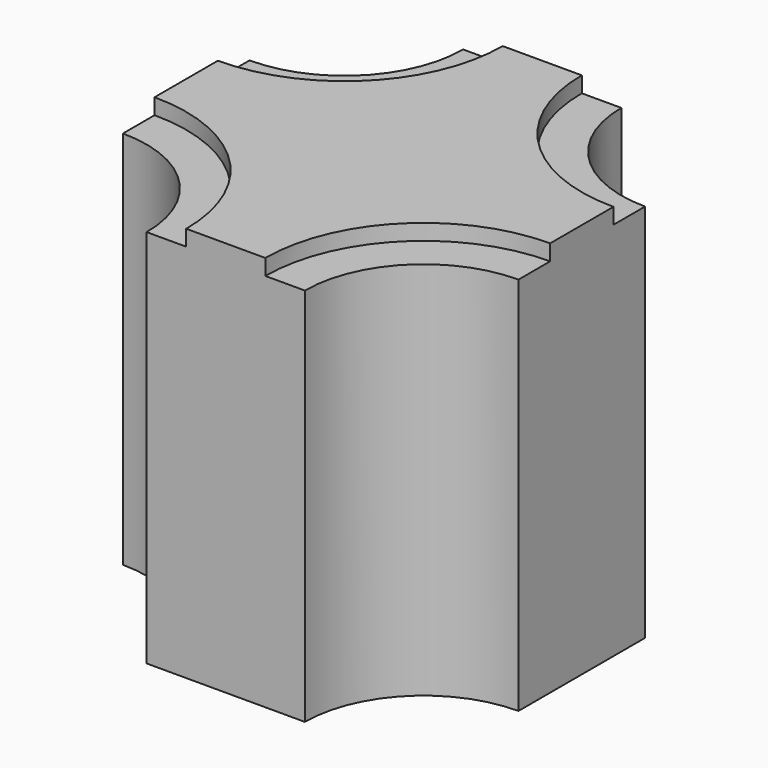
from build123d import *

# Parameters (mm, degrees)
F1_DEPTH = 250
F2_DEPTH = 240


with BuildPart() as f1:
    # F0 (on Top) → F1 (new body)
    with BuildSketch(Plane.XY):
        with BuildLine():
            Line((-250, 150), (-250, 100))
            ThreePointArc((-250, 100), (-179.289322, 70.710678), (-150, 0))
            Line((-150, 0), (-100, 0))
            ThreePointArc((-100, 0), (-70.710678, 70.710678), (0, 100))
            Line((0, 100), (0, 150))
            ThreePointArc((0, 150), (-70.710678, 179.289322), (-100, 250))
            Line((-100, 250), (-150, 250))
            ThreePointArc((-150, 250), (-179.289322, 179.289322), (-250, 150))
        make_face()
    extrude(amount=F1_DEPTH)

    # F0 (on Top) → F2 (join)
    with BuildSketch(Plane.XY):
        with BuildLine():
            Line((-250, 175), (-250, 150))
            ThreePointArc((-250, 150), (-179.289322, 179.289322), (-150, 250))
            Line((-150, 250), (-175, 250))
            ThreePointArc((-175, 250), (-196.966991, 196.966991), (-250, 175))
        make_face()
        with BuildLine():
            Line((-250, 100), (-250, 75))
            ThreePointArc((-250, 75), (-196.966991, 53.033009), (-175, 0))
            Line((-175, 0), (-150, 0))
            ThreePointArc((-150, 0), (-179.289322, 70.710678), (-250, 100))
        make_face()
        with BuildLine():
            ThreePointArc((0, 100), (-70.710678, 70.710678), (-100, 0))
            Line((-100, 0), (-75, 0))
            ThreePointArc((-75, 0), (-53.033009, 53.033009), (0, 75))
            Line((0, 75), (0, 100))
        make_face()
        with BuildLine():
            Line((-75, 250), (-100, 250))
            ThreePointArc((-100, 250), (-70.710678, 179.289322), (0, 150))
            Line((0, 150), (0, 175))
            ThreePointArc((0, 175), (-53.033009, 196.966991), (-75, 250))
        make_face()
    extrude(amount=F2_DEPTH)


solid = f1.part
